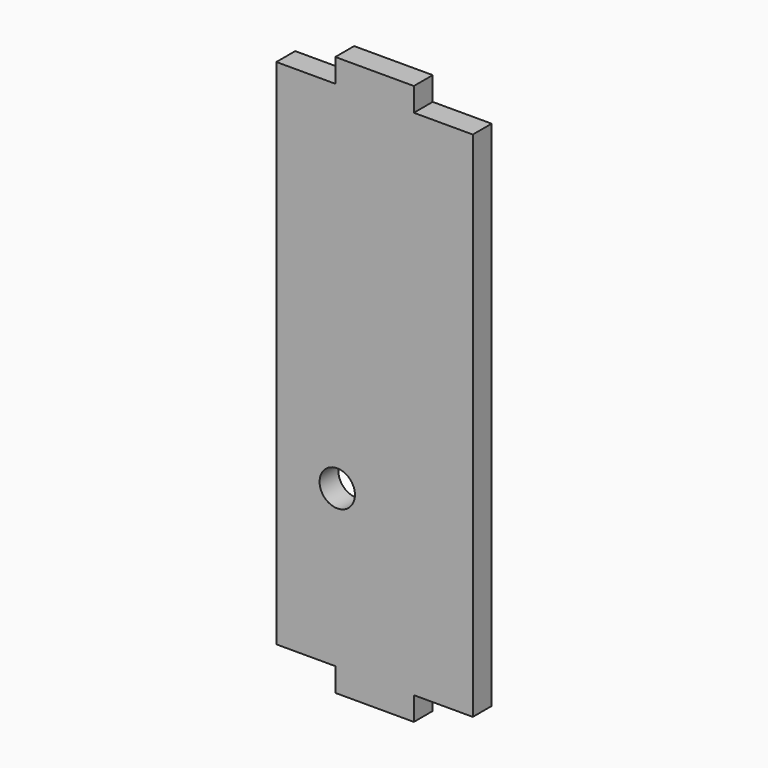
from build123d import *

# Parameters (mm, degrees)
F0_R     = 2.25
F0_W     = 10
F0_H     = 3
F1_DEPTH = 3


with BuildPart() as f1:
    # F0 (on Front) → F1 (new body)
    with BuildSketch(Plane.XZ):
        Polygon((5, -32.625), (12.5, -32.625), (12.5, 32.625), (5, 32.625), (-5, 32.625), (-12.5, 32.625), (-12.5, -32.625), (-5, -32.625), align=None)
        with Locations((-4.75, -12.625)):
            Circle(F0_R, mode=Mode.SUBTRACT)
        with Locations((0, -34.125)):
            Rectangle(F0_W, F0_H)
        with Locations((0, 34.125)):
            Rectangle(F0_W, F0_H)
    extrude(amount=F1_DEPTH)


solid = f1.part
